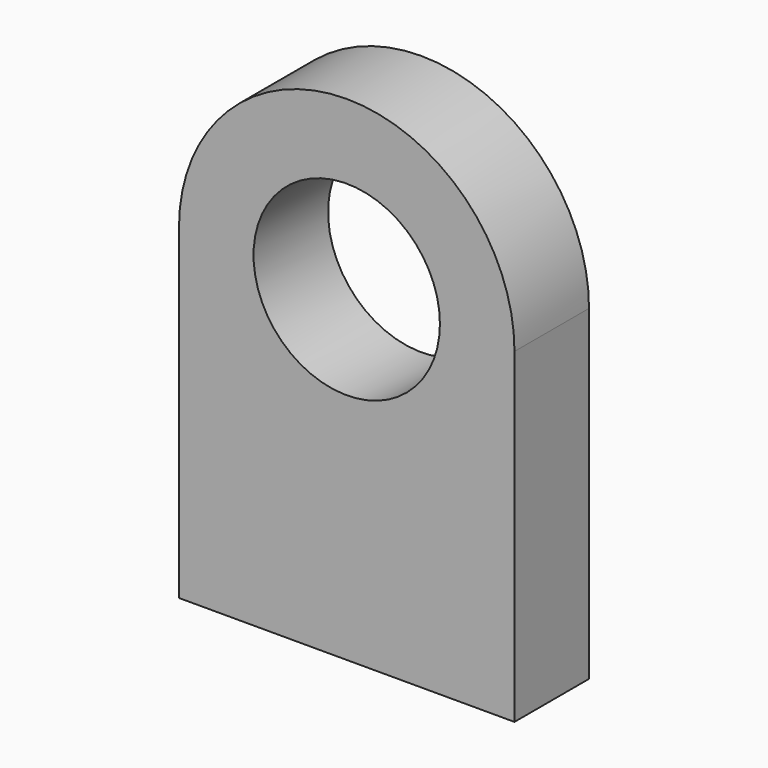
from build123d import *

# Parameters (mm, degrees)
F0_R     = 10
F1_DEPTH = 10


with BuildPart() as f1:
    # F0 (on Front) → F1 (new body)
    with BuildSketch(Plane.XZ):
        with BuildLine():
            ThreePointArc((18, 35), (0, 53), (-18, 35))
            Line((-18, 35), (-18, 0))
            Line((-18, 0), (18, 0))
            Line((18, 0), (18, 35))
        make_face()
        with Locations((0, 35)):
            Circle(F0_R, mode=Mode.SUBTRACT)
    extrude(amount=F1_DEPTH)


solid = f1.part
